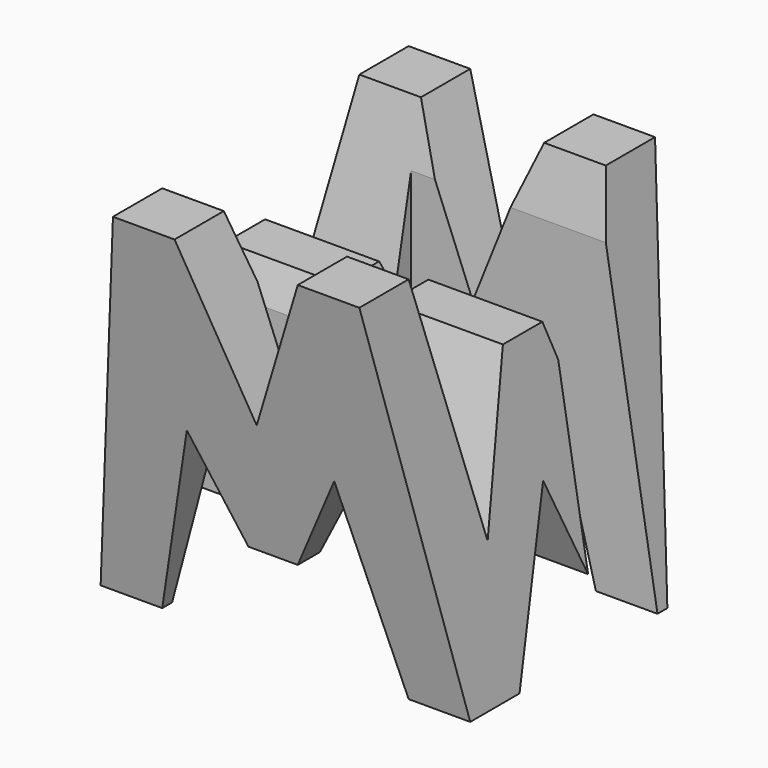
from build123d import *

# Parameters (mm, degrees)
F0_W      = 38.1
F0_H      = 38.1
F1_DEPTH  = 38.1
F6_DEPTH  = 38.1
F8_DEPTH  = 38.1
F9_W      = 25.4
F9_H      = 7.62
F10_DEPTH = 38.1


with BuildPart() as f1:
    # F0 (on Front) → F1 (new body)
    with BuildSketch(Plane.XZ):
        with Locations((-19.05, 19.05)):
            Rectangle(F0_W, F0_H)
    extrude(amount=F1_DEPTH)

    # F5 (on offset) → F6 (cut)
    with BuildSketch(Plane.YZ.offset(-38.1)):
        Polygon((-11.43, 13.500985), (-6.35, 38.1), (-31.75, 38.1), (-26.67, 13.624078), (-21.59, 28.575), (-16.51, 28.575), align=None)
        Polygon((-25.4, 0), (-12.7, 0), (-19.05, 15.875), align=None)
        Polygon((-6.35, 0), (0, 0), (0, 38.1), align=None)
        Polygon((-31.75, 0), (-38.1, 38.1), (-38.1, 0), align=None)
    extrude(amount=F6_DEPTH, mode=Mode.SUBTRACT)

    # F7 (on offset) → F8 (cut)
    with BuildSketch(Plane.XZ.offset(38.1)):
        Polygon((-31.75, 0), (-6.35, 0), (-11.43, 19.455044), (-16.51, 9.525), (-21.59, 9.525), (-26.67, 19.085767), align=None)
        Polygon((-6.35, 38.1), (0, 0), (0, 38.1), align=None)
        Polygon((-19.05, 22.225), (-12.7, 38.1), (-25.4, 38.1), align=None)
        Polygon((-38.1, 38.1), (-38.1, 0), (-31.75, 38.1), align=None)
    extrude(amount=-F8_DEPTH, mode=Mode.SUBTRACT)

    # F9 (on offset) → F10 (cut)
    with BuildSketch(Plane.XY.offset(38.1)):
        with Locations((-12.7, -11.43)):
            Rectangle(F9_W, F9_H)
        with Locations((-25.4, -26.67)):
            Rectangle(F9_W, F9_H)
    extrude(amount=-F10_DEPTH, mode=Mode.SUBTRACT)


solid = f1.part
